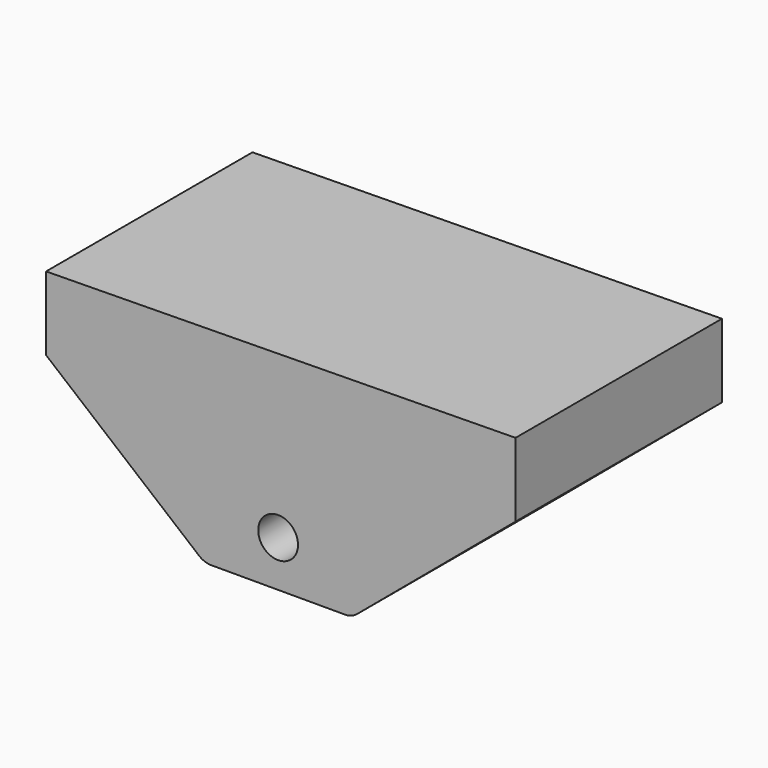
from build123d import *

# Parameters (mm, degrees)
F0_R     = 6.858
F1_DEPTH = 3.175
F2_DEPTH = 88.9


with BuildPart() as f1:
    # F0 (on Front) → F1 (new body)
    with BuildSketch(Plane.XZ):
        with BuildLine():
            Line((-3.955249, -43.753766), (19.155366, -43.753766))
            Line((19.155366, -43.753766), (42.244155, -43.753766))
            ThreePointArc((42.244155, -43.753766), (44.415983, -43.370814), (46.325856, -42.268148))
            Line((46.325856, -42.268148), (100.982199, 3.59397))
            Line((100.982199, 3.59397), (100.982199, 28.99397))
            Line((100.982199, 28.99397), (-60.809553, 26.869451))
            Line((-60.809553, 26.869451), (-60.809553, 1.469451))
            Line((-60.809553, 1.469451), (-8.007315, -42.292862))
            ThreePointArc((-8.007315, -42.292862), (-6.108937, -43.377385), (-3.955249, -43.753766))
        make_face()
        with Locations((19.155366, -27.878766)):
            Circle(F0_R, mode=Mode.SUBTRACT)
    extrude(amount=F1_DEPTH)

    # F0 (on Front) → F2 (join)
    with BuildSketch(Plane.XZ):
        with BuildLine():
            Line((-3.955249, -43.753766), (19.155366, -43.753766))
            Line((19.155366, -43.753766), (42.244155, -43.753766))
            ThreePointArc((42.244155, -43.753766), (44.415983, -43.370814), (46.325856, -42.268148))
            Line((46.325856, -42.268148), (100.982199, 3.59397))
            Line((100.982199, 3.59397), (100.982199, 28.99397))
            Line((100.982199, 28.99397), (-60.809553, 26.869451))
            Line((-60.809553, 26.869451), (-60.809553, 1.469451))
            Line((-60.809553, 1.469451), (-8.007315, -42.292862))
            ThreePointArc((-8.007315, -42.292862), (-6.108937, -43.377385), (-3.955249, -43.753766))
        make_face()
        with Locations((19.155366, -27.878766)):
            Circle(F0_R, mode=Mode.SUBTRACT)
    extrude(amount=F2_DEPTH)


solid = f1.part
